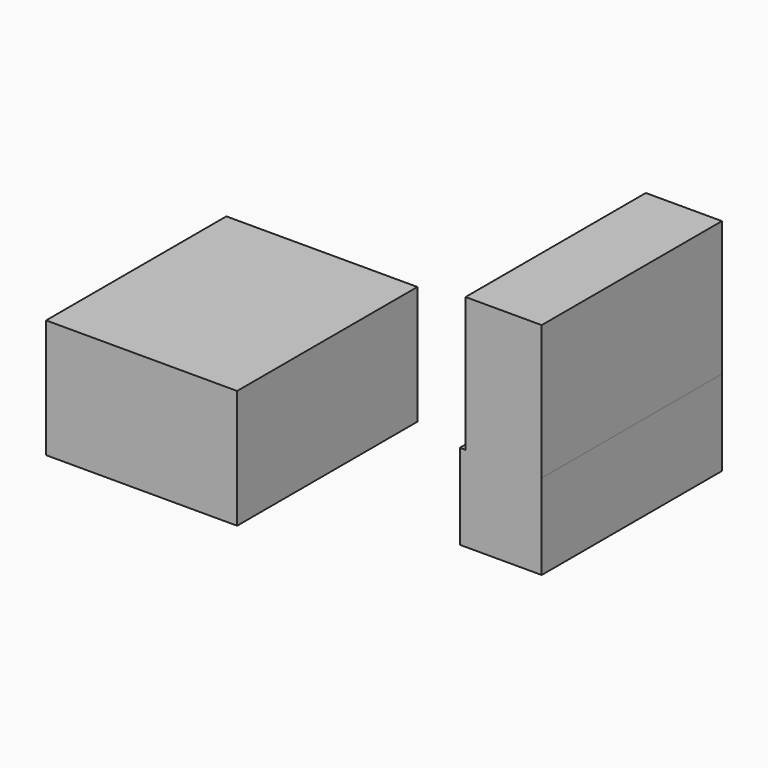
from build123d import *

# Parameters (mm, degrees)
F0_W     = 72.926759
F0_H     = 45.29475
F1_W     = 29.061049
F1_H     = 51.377833
F2_DEPTH = 86


with BuildPart() as f2:
    # F0 (on Front) + F1 (on Front) → F2 (new body)
    with BuildSketch(Plane.XZ):
        with Locations((-25.496948, 31.296326)):
            Rectangle(F0_W, F0_H)
    with BuildSketch(Plane.XZ):
        Polygon((95.956251, 62.493637), (95.956251, 29.893471), (127.210587, 29.893471), (127.210587, 62.493637), (98.149538, 62.493637), align=None)
        with Locations((112.680062, 88.182553)):
            Rectangle(F1_W, F1_H)
    extrude(amount=F2_DEPTH)


solid = f2.part
